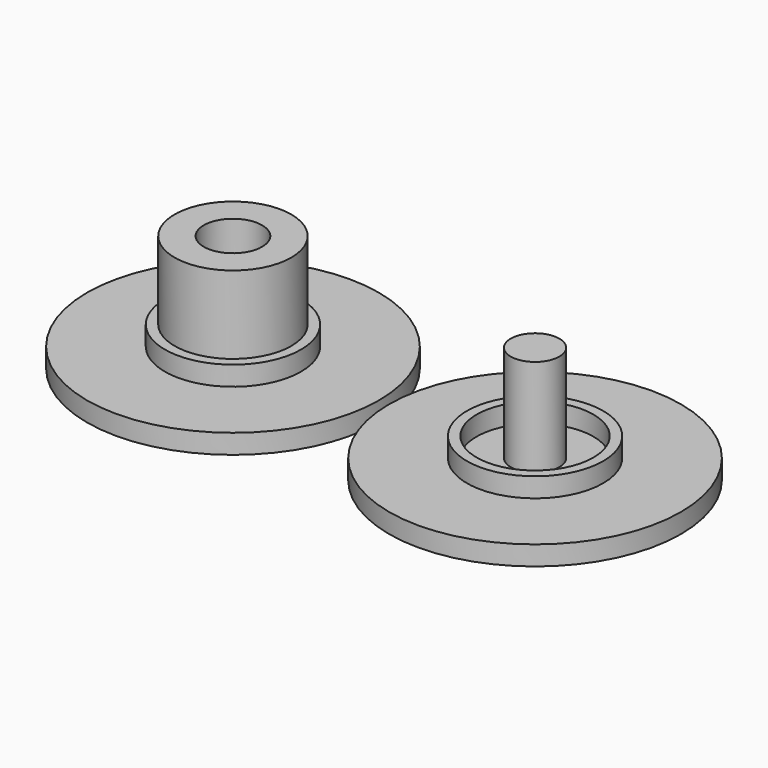
from build123d import *

# Parameters (mm, degrees)
F0_R     = 7.5
F0_R_2   = 3.5
F1_DEPTH = 1
F0_R_3   = 3
F2_DEPTH = 2
F0_R_4   = 1.5
F0_R_5   = 1.25
F3_DEPTH = 6
F4_DEPTH = 1


with BuildPart() as f1:
    # F0 (on Top) → F1 (new body)
    with BuildSketch(Plane.XY):
        Circle(F0_R)
        Circle(F0_R_2, mode=Mode.SUBTRACT)
        with Locations((15.526113, 0)):
            Circle(F0_R)
        with Locations((15.526113, 0)):
            Circle(F0_R_2, mode=Mode.SUBTRACT)
    extrude(amount=F1_DEPTH)

    # F0 (on Top) → F2 (join)
    with BuildSketch(Plane.XY):
        Circle(F0_R_2)
        Circle(F0_R_3, mode=Mode.SUBTRACT)
        with Locations((15.526113, 0)):
            Circle(F0_R_2)
        with Locations((15.526113, 0)):
            Circle(F0_R_3, mode=Mode.SUBTRACT)
    extrude(amount=F2_DEPTH)

    # F0 (on Top) → F3 (join)
    with BuildSketch(Plane.XY):
        Circle(F0_R_3)
        Circle(F0_R_4, mode=Mode.SUBTRACT)
        with Locations((15.526113, 0)):
            Circle(F0_R_5)
    extrude(amount=F3_DEPTH)

    # F0 (on Top) → F4 (join)
    with BuildSketch(Plane.XY):
        Circle(F0_R_4)
        with Locations((15.526113, 0)):
            Circle(F0_R_3)
        with Locations((15.526113, 0)):
            Circle(F0_R_5, mode=Mode.SUBTRACT)
    extrude(amount=F4_DEPTH)


solid = f1.part
